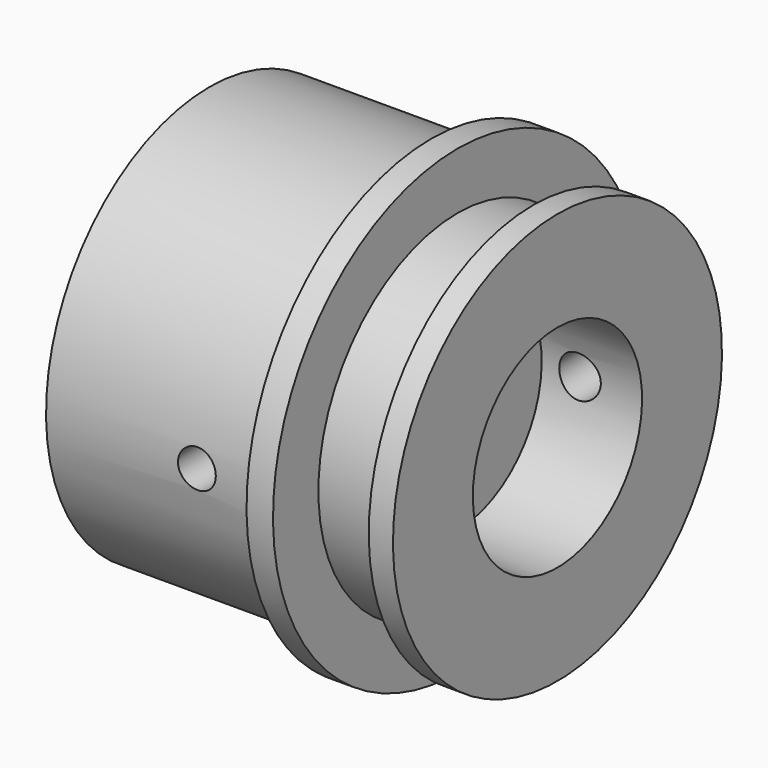
from build123d import *

# Parameters (mm, degrees)
F3_R     = 2.5
F4_DEPTH = 56.9
F5_R     = 2.5
F6_DEPTH = 26.75
F7_R     = 2.75
F8_DEPTH = 25


with BuildPart() as f2:
    # F0 (on Front) → F2 (revolve)
    with BuildSketch(Plane.XZ):
        Polygon((6.011957, 27), (-23.288043, 27), (-23.288043, 5), (9.441957, 5), (9.441957, 13.98), (22.711957, 13.98), (22.711957, 27.18), (19.511957, 27.18), (19.511957, 23), (9.511957, 23), (9.511957, 30.5), (6.011957, 30.5), align=None)
    revolve(axis=Axis((-13.926744, 0, 0), (-1, 0, 0)))

    # F3 (on Front) → F4 (cut, symmetric)
    with BuildSketch(Plane.XZ):
        with Locations((-3.348043, 0)):
            Circle(F3_R)
    extrude(amount=F4_DEPTH, both=True, mode=Mode.SUBTRACT)

    # F5 (on face) → F6 (cut)
    with BuildSketch(Plane(origin=(-23.288043, 0, 0), x_dir=(0, -1, 0), z_dir=(-1, 0, 0))):
        with Locations((0, -11.75)):
            Circle(F5_R)
        with Locations((0, 11.75)):
            Circle(F5_R)
    extrude(amount=-F6_DEPTH, mode=Mode.SUBTRACT)

    # F7 (on Front) → F8 (cut)
    with BuildSketch(Plane.XZ):
        with Locations((14.511957, 0)):
            Circle(F7_R)
    extrude(amount=-F8_DEPTH, mode=Mode.SUBTRACT)


solid = f2.part
